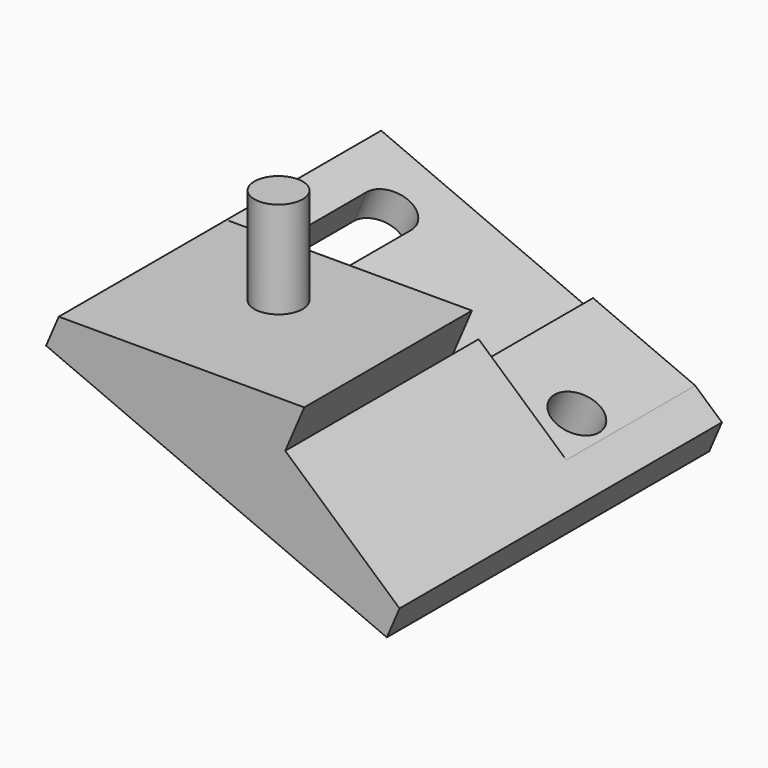
from build123d import *

# Parameters (mm, degrees)
PAD_DEPTH                      = 25
POCKET_DEPTH                   = 12
SKETCH002_R                    = 1.5
PAD001_DEPTH                   = 6
POCKET001_DEPTH                = 2.001
SKETCH004_W                    = 2.3
SKETCH004_H                    = 10
POCKET002_DEPTH                = 9.001
SKETCH005_R                    = 1.5
HOLE_DEPTH                     = 2.701
PART_MIRRORING_PLACEMENT_ANGLE = 23.19859


with BuildPart() as body:
    # Sketch → Pad (new body)
    with BuildSketch(Plane.XZ):
        Polygon((0, 0), (0, 2), (14, 8), (14, 5), (23, 2), (23, 0), align=None)
    extrude(amount=PAD_DEPTH)

    # Sketch001 (on Face8 of Pad) → Pocket (cut)
    with BuildSketch(Plane.XZ.offset(25)):
        Polygon((0, 2), (14, 2), (14, 8), align=None)
    extrude(amount=-POCKET_DEPTH, mode=Mode.SUBTRACT)

    # Sketch002 (on Face3 of Pocket) → Pad001 (join)
    with BuildSketch(Plane(origin=(-0.724138, 0, 1.689655), x_dir=(-0.919145, 0, -0.393919), z_dir=(-0.393919, 0, 0.919145))):
        with Locations((-8.019385, 8)):
            Circle(SKETCH002_R)
    extrude(amount=PAD001_DEPTH)

    # Sketch003 (on Face4 of Pad001) → Pocket001 (cut, through all)
    with BuildSketch(Plane(origin=(0, 0, 2), x_dir=(-1, 0, 0), z_dir=(0, 0, 1))):
        with BuildLine():
            ThreePointArc((-2.500319, 21.030919), (-4.030919, 22.499681), (-5.499681, 20.969081))
            Line((-5.499681, 14.969081), (-5.499681, 20.969081))
            ThreePointArc((-5.499681, 14.969081), (-3.969081, 13.500319), (-2.500319, 15.030919))
            Line((-2.500319, 15.030919), (-2.500319, 21.030919))
        make_face()
    extrude(amount=-POCKET001_DEPTH, mode=Mode.SUBTRACT)

    # Sketch004 (on Face15 of Pocket001) → Pocket002 (cut, through all)
    with BuildSketch(Plane(origin=(14, 0, 0), x_dir=(0, 0, -1), z_dir=(-1, 0, 0))):
        with Locations((-3.85, 20)):
            Rectangle(SKETCH004_W, SKETCH004_H)
    extrude(amount=-POCKET002_DEPTH, mode=Mode.SUBTRACT)

    # Sketch005 (on Face17 of Pocket002) → Hole (cut, through all)
    with BuildSketch(Plane(origin=(0, 0, 2.7), x_dir=(-1, 0, 0), z_dir=(0, 0, 1))):
        with Locations((-19, 18)):
            Circle(SKETCH005_R)
    extrude(amount=-HOLE_DEPTH, mode=Mode.SUBTRACT)


with BuildPart() as part_mirroring:
    # Part__Mirroring: instance of Body
    add(body.part.mirror(Plane(origin=(0, 0, 0), x_dir=(1, 0, 0), z_dir=(0, 1, 0))))


with BuildPart() as part_mirroring_1:
    # Part__Mirroring placement: moved
    add(part_mirroring.part.moved(Location((-8.019385, -8, -3.338294))).rotate(Axis((-8.019385, -8, -3.338294), (0, 1, 0)), PART_MIRRORING_PLACEMENT_ANGLE))


solid = part_mirroring_1.part
